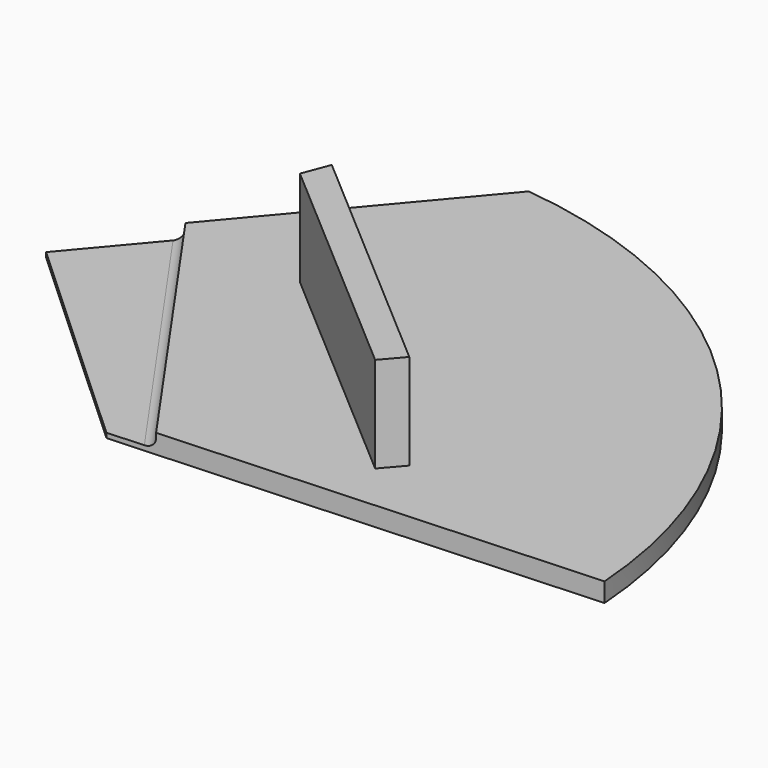
from build123d import *

# Parameters (mm, degrees)
F1_DEPTH = 2
F3_DEPTH = 10
F5_DEPTH = 1
F6_DEPTH = 0.5
F7_R     = 1


with BuildPart() as f1:
    # F0 (on Top) → F1 (new body)
    with BuildSketch(Plane.XY):
        with BuildLine():
            Line((-2.078642603, 0), (47.9039736092, 2.6289783418))
            ThreePointArc((47.9039736092, 2.6289783418), (32.9834717321, 36.2761769642), (0, 52.6115968823))
            Line((0, 52.6115968823), (-25.8684456348, 21.8530613929))
            Line((-25.8684456348, 21.8530613929), (-2.078642603, 0))
        make_face()
    extrude(amount=F1_DEPTH)

    # F2 (on face) → F3 (join)
    with BuildSketch(Plane.XY.offset(2)):
        Polygon((-3.4849730935, 31.2140034176), (-4.5563918538, 28.3914133906), (20.8157394081, 6.5072686411), (22.6687969397, 8.6556742318), align=None)
    extrude(amount=F3_DEPTH)

    # F4 (on face) → F5 (cut)
    with BuildSketch(Plane.XY.offset(2)):
        Polygon((-2.078642603, 0), (2.9054336124, 0.2621517123), (-18.4005183491, 30.7327022377), (-25.8684456348, 21.8530613929), align=None)
    extrude(amount=-F5_DEPTH, mode=Mode.SUBTRACT)

    # F6 (cut): a face of the model
    f6_faces = [f1.faces().sort_by_distance(p)[0] for p in [
        (-12.6099622949, 15.3981218479, 1),
    ]]
    extrude(f6_faces, amount=-F6_DEPTH, mode=Mode.SUBTRACT)

    # F7
    f7_edges = [f1.edges().sort_by_distance(p)[0] for p in [
        (-7.747542, 15.497427, 0.5),
    ]]
    fillet(f7_edges, radius=F7_R)


solid = f1.part
